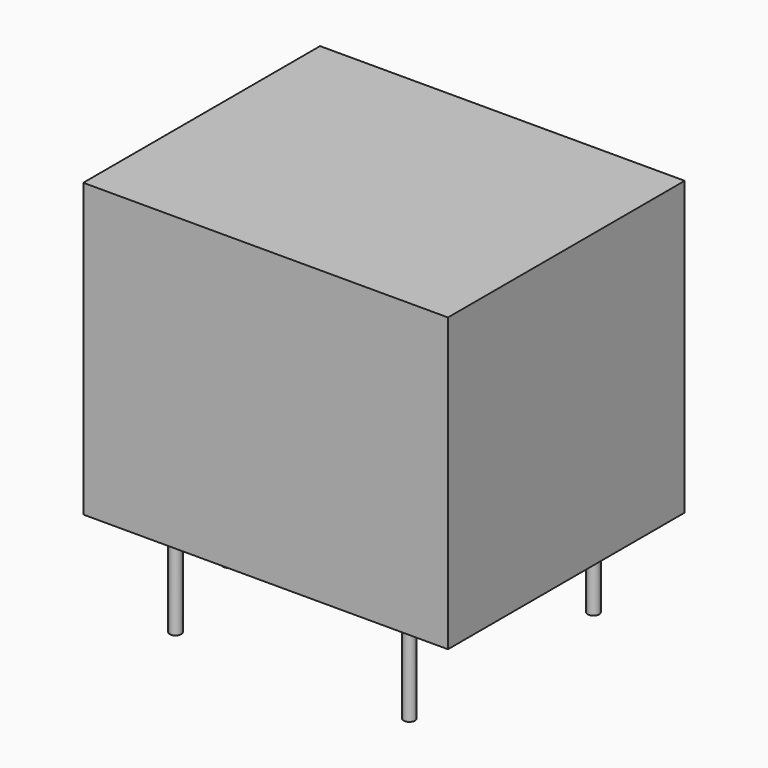
from build123d import *

# Parameters (mm, degrees)
BOX_W     = 19.1
BOX_H     = 15.5
BOX_DEPTH = 15.3
SKETCH_R  = 0.3
PAD_DEPTH = 5
FILLET_R  = 0.1


with BuildPart() as cube:
    # Box → Box (new body)
    with BuildSketch(Plane.XY):
        with Locations((9.55, 7.75)):
            Rectangle(BOX_W, BOX_H)
    extrude(amount=BOX_DEPTH)


with BuildPart() as pad:
    # Pad base: copy of Cube
    add(cube.part)

    # Sketch → Pad (new body)
    with BuildSketch(Plane(origin=(0, 0, 0), x_dir=(1, 0, 0), z_dir=(0, 0, -1))):
        with Locations((1.4, -7.75)):
            Circle(SKETCH_R)
        with Locations((3.45, -1.725)):
            Circle(SKETCH_R)
        with Locations((15.7, -1.725)):
            Circle(SKETCH_R)
        with Locations((3.45, -13.775)):
            Circle(SKETCH_R)
        with Locations((15.7, -13.775)):
            Circle(SKETCH_R)
    extrude(amount=PAD_DEPTH)


with BuildPart() as fillet_body:
    # Fillet base: copy of Pad
    add(pad.part)

    # Fillet
    fillet_edges = [fillet_body.edges().sort_by_distance(p)[0] for p in [
        (9.55, 0, 15.3),
        (0, 7.75, 15.3),
        (9.55, 15.5, 15.3),
        (19.1, 7.75, 15.3),
    ]]
    fillet(fillet_edges, radius=FILLET_R)


with BuildPart() as fusion:
    # Fusion base: copy of Pad
    add(pad.part)

    # Fusion: union Fillet body
    add(fillet_body.part)


with BuildPart() as fusion001:
    # Fusion001 base: copy of Cube
    add(cube.part)

    # Fusion001: union Fusion
    add(fusion.part)


solid = fusion001.part
